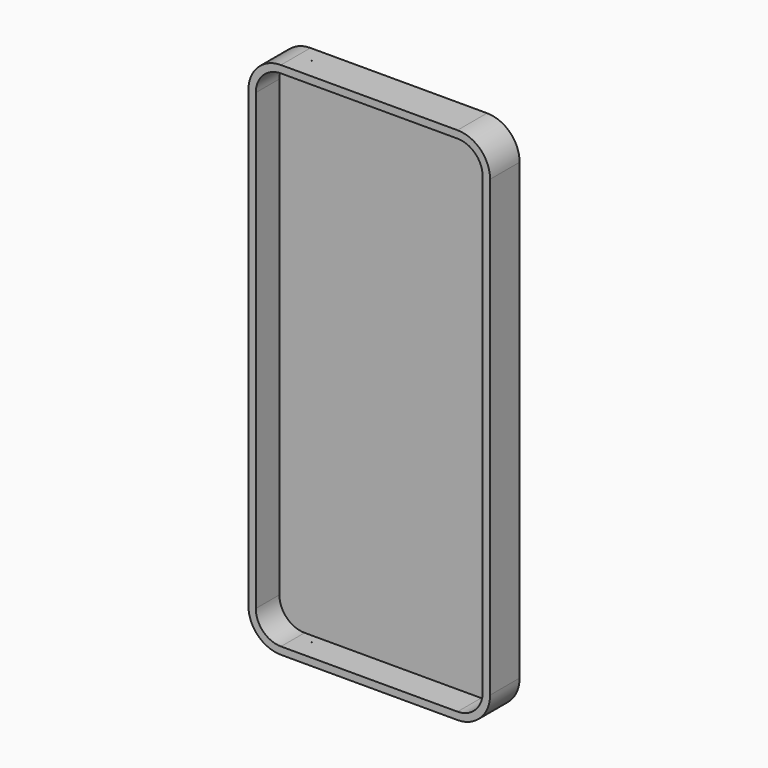
from build123d import *

# Parameters (mm, degrees)
F1_DEPTH       = 12.7
F2_T           = -2.54
F4_D           = 0.25
F4_CBORE_D     = 12.7
F4_CBORE_DEPTH = 0


with BuildPart() as f1:
    # F0 (on Front) → F1 (new body)
    with BuildSketch(Plane.XZ):
        with BuildLine():
            Line((30.532771, 96.341363), (-30.200021, 96.341363))
            ThreePointArc((-30.200021, 96.341363), (-38.122194, 93.059891), (-41.403666, 85.137717))
            Line((-41.403666, 85.137717), (-41.403666, -71.078406))
            ThreePointArc((-41.403666, -71.078406), (-38.122194, -79.00058), (-30.200021, -82.282051))
            Line((-30.200021, -82.282051), (30.532771, -82.282051))
            ThreePointArc((30.532771, -82.282051), (38.454945, -79.00058), (41.736417, -71.078406))
            Line((41.736417, -71.078406), (41.736417, 85.137717))
            ThreePointArc((41.736417, 85.137717), (38.454945, 93.059891), (30.532771, 96.341363))
        make_face()
    extrude(amount=F1_DEPTH)

    # F2
    f2_openings = [f1.faces().sort_by_distance(p)[0] for p in [
        (0.166375, -12.7, 7.029656),
    ]]
    offset(amount=F2_T, openings=f2_openings)

    # F4 (through all)
    with Locations(Plane(origin=(0, 0, -82.282051), x_dir=(1, 0, 0), z_dir=(0, 0, -1))):
        with Locations((-25.25001, 5.65)):
            CounterBoreHole(F4_D / 2, F4_CBORE_D / 2, F4_CBORE_DEPTH)


solid = f1.part
